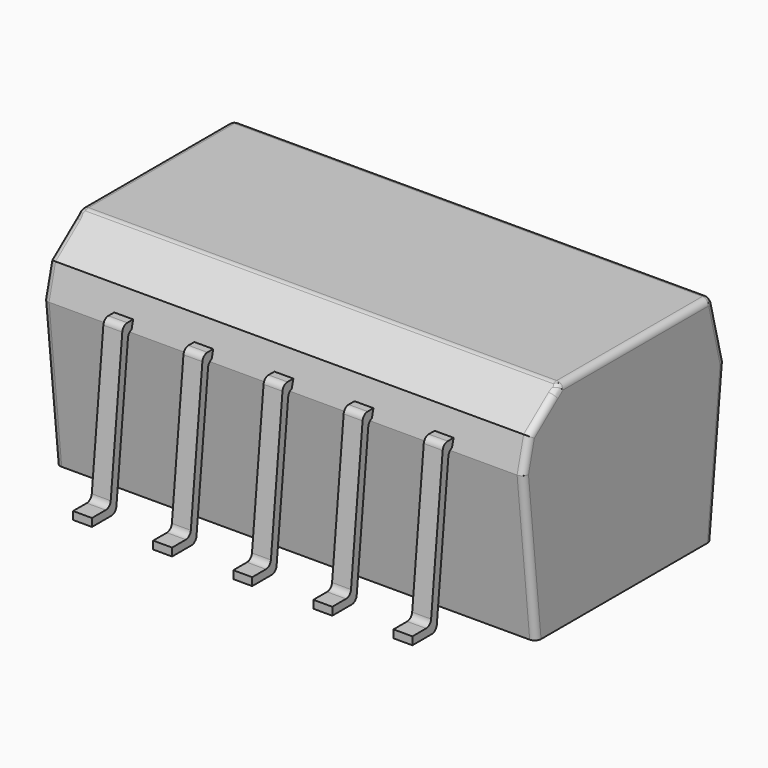
from build123d import *

# Parameters (mm, degrees)
PAD005_DEPTH = 0.3
FILLET006_R  = 0.2
PAD004_DEPTH = 0.3
FILLET005_R  = 0.2
PAD003_DEPTH = 0.3
FILLET004_R  = 0.2
PAD002_DEPTH = 0.3
FILLET003_R  = 0.2
PAD001_DEPTH = 15.24
CHAMFER_SIZE = 1
FILLET001_R  = 0.2
FILLET002_R  = 0.2
PAD_DEPTH    = 15.24
FILLET_R     = 0.2
PAD006_DEPTH = 0.3
FILLET007_R  = 0.2


with BuildPart() as obj1:
    # Sketch005 → Pad005 (new body, symmetric)
    with BuildSketch(Plane.YZ.offset(10.12)):
        Polygon((-5.55, 0.25), (-4.825927, 0.25), (-4.330942, 5.130401), (4.330942, 5.130401), (4.825927, 0.25), (5.55, 0.25), (5.55, 0), (4.6, 0), (4.105015, 4.880401), (-4.105015, 4.880401), (-4.6, 0), (-5.55, 0), align=None)
    extrude(amount=PAD005_DEPTH, both=True)

    # Fillet006
    fillet006_edges = [obj1.edges().sort_by_distance(p)[0] for p in [
        (10.12, 4.330942, 5.130401),
        (10.12, -4.330942, 5.130401),
        (10.12, 4.105015, 4.880401),
        (10.12, -4.105015, 4.880401),
        (10.12, 4.6, 0),
        (10.12, -4.6, 0),
        (10.12, 4.825927, 0.25),
        (10.12, -4.825927, 0.25),
    ]]
    fillet(fillet006_edges, radius=FILLET006_R)


with BuildPart() as obj2:
    # Sketch004 → Pad004 (new body, symmetric)
    with BuildSketch(Plane.YZ.offset(7.58)):
        Polygon((-5.55, 0.25), (-4.825927, 0.25), (-4.330942, 5.130401), (4.330942, 5.130401), (4.825927, 0.25), (5.55, 0.25), (5.55, 0), (4.6, 0), (4.105015, 4.880401), (-4.105015, 4.880401), (-4.6, 0), (-5.55, 0), align=None)
    extrude(amount=PAD004_DEPTH, both=True)

    # Fillet005
    fillet005_edges = [obj2.edges().sort_by_distance(p)[0] for p in [
        (7.58, 4.330942, 5.130401),
        (7.58, -4.330942, 5.130401),
        (7.58, 4.105015, 4.880401),
        (7.58, -4.105015, 4.880401),
        (7.58, 4.6, 0),
        (7.58, -4.6, 0),
        (7.58, 4.825927, 0.25),
        (7.58, -4.825927, 0.25),
    ]]
    fillet(fillet005_edges, radius=FILLET005_R)


with BuildPart() as obj3:
    # Sketch003 → Pad003 (new body, symmetric)
    with BuildSketch(Plane.YZ.offset(5.04)):
        Polygon((-5.55, 0.25), (-4.825927, 0.25), (-4.330942, 5.130401), (4.330942, 5.130401), (4.825927, 0.25), (5.55, 0.25), (5.55, 0), (4.6, 0), (4.105015, 4.880401), (-4.105015, 4.880401), (-4.6, 0), (-5.55, 0), align=None)
    extrude(amount=PAD003_DEPTH, both=True)

    # Fillet004
    fillet004_edges = [obj3.edges().sort_by_distance(p)[0] for p in [
        (5.04, 4.330942, 5.130401),
        (5.04, -4.330942, 5.130401),
        (5.04, 4.105015, 4.880401),
        (5.04, -4.105015, 4.880401),
        (5.04, 4.6, 0),
        (5.04, -4.6, 0),
        (5.04, 4.825927, 0.25),
        (5.04, -4.825927, 0.25),
    ]]
    fillet(fillet004_edges, radius=FILLET004_R)


with BuildPart() as obj4:
    # Sketch002 → Pad002 (new body, symmetric)
    with BuildSketch(Plane.YZ.offset(2.5)):
        Polygon((-5.55, 0.25), (-4.825927, 0.25), (-4.330942, 5.130401), (4.330942, 5.130401), (4.825927, 0.25), (5.55, 0.25), (5.55, 0), (4.6, 0), (4.105015, 4.880401), (-4.105015, 4.880401), (-4.6, 0), (-5.55, 0), align=None)
    extrude(amount=PAD002_DEPTH, both=True)

    # Fillet003
    fillet003_edges = [obj4.edges().sort_by_distance(p)[0] for p in [
        (2.5, 4.330942, 5.130401),
        (2.5, -4.330942, 5.130401),
        (2.5, 4.105015, 4.880401),
        (2.5, -4.105015, 4.880401),
        (2.5, 4.6, 0),
        (2.5, -4.6, 0),
        (2.5, 4.825927, 0.25),
        (2.5, -4.825927, 0.25),
    ]]
    fillet(fillet003_edges, radius=FILLET003_R)


with BuildPart() as fillet002:
    # Sketch001 → Pad001 (new body)
    with BuildSketch(Plane.YZ):
        Polygon((-4, 4.8), (4, 4.8), (3.5, 6.8), (-3.5, 6.8), align=None)
    extrude(amount=PAD001_DEPTH)

    # Chamfer
    chamfer_edges = [fillet002.edges().sort_by_distance(p)[0] for p in [
        (7.62, -3.5, 6.8),
    ]]
    chamfer(chamfer_edges, length=CHAMFER_SIZE)

    # Fillet001
    fillet001_edges = [fillet002.edges().sort_by_distance(p)[0] for p in [
        (0, 0.5, 6.8),
        (7.62, -2.5, 6.8),
        (7.62, 3.5, 6.8),
        (15.24, 0.5, 6.8),
    ]]
    fillet(fillet001_edges, radius=FILLET001_R)

    # Fillet002
    fillet002_edges = [fillet002.edges().sort_by_distance(p)[0] for p in [
        (0, -3.871268, 5.314929),
        (0, -3.249345, 6.214929),
        (0, 3.775, 5.7),
        (15.24, 3.775, 5.7),
        (15.24, -3.871268, 5.314929),
        (15.24, -3.249345, 6.214929),
    ]]
    fillet(fillet002_edges, radius=FILLET002_R)


with BuildPart() as fillet_body:
    # Sketch → Pad (new body)
    with BuildSketch(Plane.YZ):
        Polygon((-4, 4.8), (4, 4.8), (3.5, 0), (-3.5, 0), align=None)
    extrude(amount=PAD_DEPTH)

    # Fillet
    fillet_edges = [fillet_body.edges().sort_by_distance(p)[0] for p in [
        (0, 3.75, 2.4),
        (15.24, 3.75, 2.4),
        (15.24, -3.75, 2.4),
        (0, -3.75, 2.4),
    ]]
    fillet(fillet_edges, radius=FILLET_R)


with BuildPart() as fusion:
    # Sketch006 → Pad006 (new body, symmetric)
    with BuildSketch(Plane.YZ.offset(12.66)):
        Polygon((-5.55, 0.25), (-4.825927, 0.25), (-4.330942, 5.130401), (4.330942, 5.130401), (4.825927, 0.25), (5.55, 0.25), (5.55, 0), (4.6, 0), (4.105015, 4.880401), (-4.105015, 4.880401), (-4.6, 0), (-5.55, 0), align=None)
    extrude(amount=PAD006_DEPTH, both=True)

    # Fillet007
    fillet007_edges = [fusion.edges().sort_by_distance(p)[0] for p in [
        (12.66, 4.330942, 5.130401),
        (12.66, -4.330942, 5.130401),
        (12.66, 4.105015, 4.880401),
        (12.66, -4.105015, 4.880401),
        (12.66, 4.6, 0),
        (12.66, -4.6, 0),
        (12.66, 4.825927, 0.25),
        (12.66, -4.825927, 0.25),
    ]]
    fillet(fillet007_edges, radius=FILLET007_R)

    # Fusion: union obj1, obj2, obj3, obj4, Fillet002, Fillet body
    add(obj1.part)
    add(obj2.part)
    add(obj3.part)
    add(obj4.part)
    add(fillet002.part)
    add(fillet_body.part)


solid = fusion.part
